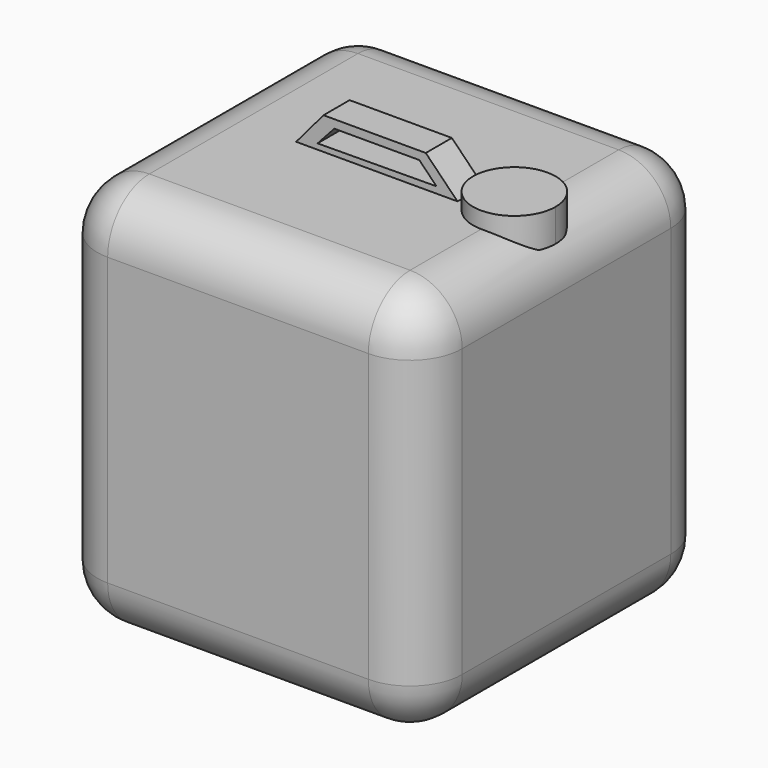
from build123d import *

# Parameters (mm, degrees)
F1_DEPTH = 300
F2_R     = 40
F4_DEPTH = 12.5
F6_DEPTH = 12.5


with BuildPart() as f1:
    # F0 (on Top) → F1 (new body)
    with BuildSketch(Plane.XY):
        with BuildLine():
            ThreePointArc((140, 100), (128.2842712475, 128.2842712475), (100, 140))
            Line((100, 140), (-100, 140))
            ThreePointArc((-100, 140), (-128.2842712475, 128.2842712475), (-140, 100))
            Line((-140, 100), (-140, -100))
            ThreePointArc((-140, -100), (-128.2842712475, -128.2842712475), (-100, -140))
            Line((-100, -140), (100, -140))
            ThreePointArc((100, -140), (128.2842712475, -128.2842712475), (140, -100))
            Line((140, -100), (140, 100))
        make_face()
        with BuildLine():
            ThreePointArc((140, 100), (128.2842712475, 128.2842712475), (100, 140))
            Line((100, 140), (-100, 140))
            ThreePointArc((-100, 140), (-128.2842712475, 128.2842712475), (-140, 100))
            Line((-140, 100), (-140, -100))
            ThreePointArc((-140, -100), (-128.2842712475, -128.2842712475), (-100, -140))
            Line((-100, -140), (100, -140))
            ThreePointArc((100, -140), (128.2842712475, -128.2842712475), (140, -100))
            Line((140, -100), (140, 100))
        make_face()
    extrude(amount=F1_DEPTH)

    # F2
    f2_edges = [f1.edges().sort_by_distance(p)[0] for p in [
        (128.284271, 128.284271, 300),
        (0, 140, 300),
        (-128.284271, 128.284271, 300),
        (-140, 0, 300),
        (-128.284271, -128.284271, 300),
        (0, -140, 300),
        (128.284271, -128.284271, 300),
        (140, 0, 300),
        (140, 0, 0),
    ]]
    fillet(f2_edges, radius=F2_R)

    # F3 (on face) → F4 (join, symmetric)
    with BuildSketch(Plane.XY.offset(300)):
        with BuildLine():
            ThreePointArc((100, -31.6815127242), (122.4022124856, -22.4022124855), (131.6815127242, 0))
            ThreePointArc((131.6815127242, 0), (122.4022124856, 22.4022124855), (100, 31.6815127242))
            Line((100, 31.6815127242), (100, -31.6815127242))
        make_face()
        with BuildLine():
            Line((100, -31.6815127242), (100, 31.6815127242))
            ThreePointArc((100, 31.6815127242), (68.3184872758, 0), (100, -31.6815127242))
        make_face()
    extrude(amount=F4_DEPTH, both=True)

    # F5 (on Front) → F6 (join, symmetric)
    with BuildSketch(Plane.XZ):
        Polygon((-36.387193948, 324.7865736485), (-57.6208606362, 299.7408509254), (66.6310936213, 299.7408509254), (42.0579239726, 324.7865736485), align=None)
        Polygon((50.280045718, 304.940700531), (-40.9793257713, 304.2699992657), (-28.1326603144, 318.3833062649), (37.1089726686, 318.3833062649), align=None, mode=Mode.SUBTRACT)
    extrude(amount=F6_DEPTH, both=True)


solid = f1.part
